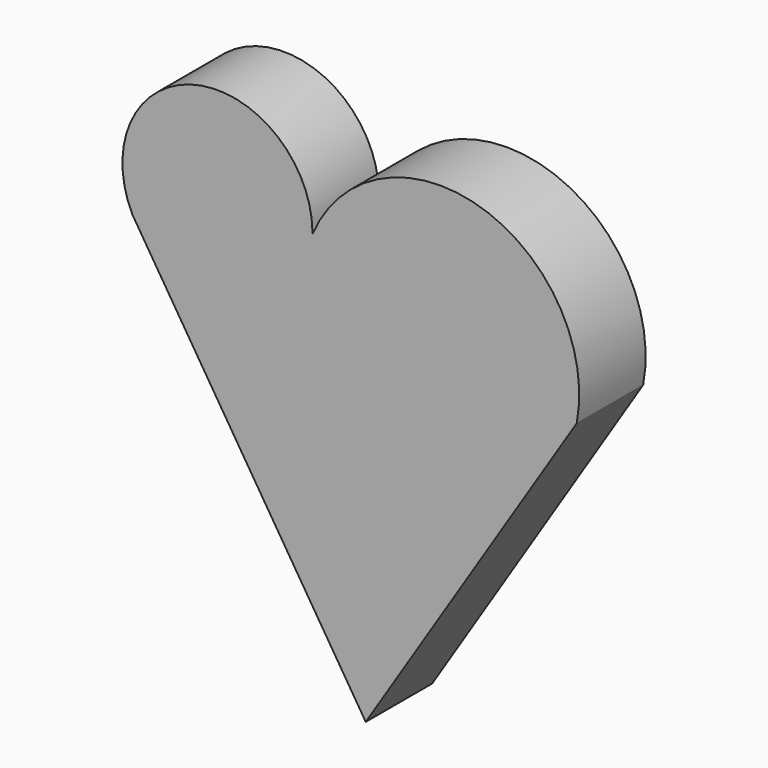
from build123d import *

# Parameters (mm, degrees)
F1_DEPTH = 25.4


with BuildPart() as f1:
    # F0 (on Front) → F1 (new body)
    with BuildSketch(Plane.XZ):
        with BuildLine():
            ThreePointArc((51.010095, 54.163594), (21.668951, 102.782431), (-29.800825, 78.791678))
            Line((-29.800825, 78.791678), (-29.800825, 79.406742))
            ThreePointArc((-29.800825, 79.406742), (-65.60986, 107.361105), (-84.912881, 66.237792))
            Line((-84.912881, 66.237792), (-13.511168, -47.215126))
            Line((-13.511168, -47.215126), (51.010095, 54.163594))
        make_face()
        with BuildLine():
            Line((-29.800825, 79.406742), (-29.800825, 78.791678))
            ThreePointArc((-29.800825, 78.791678), (-29.799197, 79.09921), (-29.800825, 79.406742))
        make_face()
    extrude(amount=F1_DEPTH)


solid = f1.part
